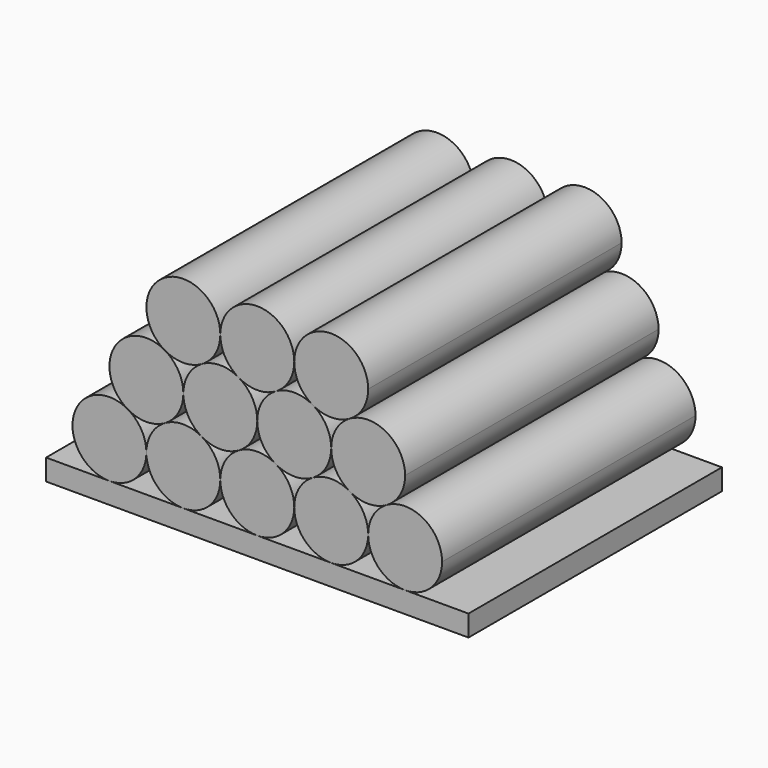
from build123d import *

# Parameters (mm, degrees)
F1_DEPTH = 76.2


with BuildPart() as f1:
    # F0 (on Front) → F1 (new body)
    with BuildSketch(Plane.XZ):
        with BuildLine():
            ThreePointArc((-8.89, 15.397932), (-22.225, 23.096898), (-22.225, 7.698966))
            ThreePointArc((-22.225, 7.698966), (-17.78, 6.507932), (-13.335, 7.698966))
            ThreePointArc((-13.335, 7.698966), (-10.081034, 10.952932), (-8.89, 15.397932))
        make_face()
        with BuildLine():
            ThreePointArc((8.89, 15.397932), (0, 24.287932), (-8.89, 15.397932))
            ThreePointArc((-8.89, 15.397932), (-7.698966, 10.952932), (-4.445, 7.698966))
            ThreePointArc((-4.445, 7.698966), (0, 6.507932), (4.445, 7.698966))
            ThreePointArc((4.445, 7.698966), (7.698966, 10.952932), (8.89, 15.397932))
        make_face()
        with BuildLine():
            ThreePointArc((26.67, 15.397932), (17.78, 24.287932), (8.89, 15.397932))
            ThreePointArc((8.89, 15.397932), (10.081034, 10.952932), (13.335, 7.698966))
            ThreePointArc((13.335, 7.698966), (17.78, 6.507932), (22.225, 7.698966))
            ThreePointArc((22.225, 7.698966), (25.478966, 10.952932), (26.67, 15.397932))
        make_face()
        with BuildLine():
            ThreePointArc((35.56, 0), (31.115, 7.698966), (22.225, 7.698966))
            ThreePointArc((22.225, 7.698966), (18.971034, 4.445), (17.78, 0))
            ThreePointArc((17.78, 0), (18.971034, -4.445), (22.225, -7.698966))
            ThreePointArc((22.225, -7.698966), (26.67, -8.89), (31.115, -7.698966))
            ThreePointArc((31.115, -7.698966), (34.368966, -4.445), (35.56, 0))
        make_face()
        with BuildLine():
            ThreePointArc((4.445, 7.698966), (1.191034, 4.445), (0, 0))
            ThreePointArc((0, 0), (1.191034, -4.445), (4.445, -7.698966))
            ThreePointArc((4.445, -7.698966), (8.89, -8.89), (13.335, -7.698966))
            ThreePointArc((13.335, -7.698966), (16.588966, -4.445), (17.78, 0))
            ThreePointArc((17.78, 0), (16.588966, 4.445), (13.335, 7.698966))
            ThreePointArc((13.335, 7.698966), (8.89, 8.89), (4.445, 7.698966))
        make_face()
        with BuildLine():
            ThreePointArc((-13.335, 7.698966), (-16.588966, 4.445), (-17.78, 0))
            ThreePointArc((-17.78, 0), (-16.588966, -4.445), (-13.335, -7.698966))
            ThreePointArc((-13.335, -7.698966), (-8.89, -8.89), (-4.445, -7.698966))
            ThreePointArc((-4.445, -7.698966), (-1.191034, -4.445), (0, 0))
            ThreePointArc((0, 0), (-1.191034, 4.445), (-4.445, 7.698966))
            ThreePointArc((-4.445, 7.698966), (-8.89, 8.89), (-13.335, 7.698966))
        make_face()
        with BuildLine():
            ThreePointArc((-22.225, -7.698966), (-18.971034, -4.445), (-17.78, 0))
            ThreePointArc((-17.78, 0), (-18.971034, 4.445), (-22.225, 7.698966))
            ThreePointArc((-22.225, 7.698966), (-34.368966, 4.445), (-31.115, -7.698966))
            ThreePointArc((-31.115, -7.698966), (-26.67, -8.89), (-22.225, -7.698966))
        make_face()
        with BuildLine():
            ThreePointArc((-26.67, -15.397932), (-27.861034, -10.952932), (-31.115, -7.698966))
            ThreePointArc((-31.115, -7.698966), (-44.147081, -13.09703), (-35.56, -24.287932))
            ThreePointArc((-35.56, -24.287932), (-29.273821, -21.684111), (-26.67, -15.397932))
        make_face()
        with BuildLine():
            ThreePointArc((-13.335, -7.698966), (-17.78, -6.507932), (-22.225, -7.698966))
            ThreePointArc((-22.225, -7.698966), (-25.478966, -10.952932), (-26.67, -15.397932))
            ThreePointArc((-26.67, -15.397932), (-24.066179, -21.684111), (-17.78, -24.287932))
            ThreePointArc((-17.78, -24.287932), (-11.493821, -21.684111), (-8.89, -15.397932))
            ThreePointArc((-8.89, -15.397932), (-10.081034, -10.952932), (-13.335, -7.698966))
        make_face()
        with BuildLine():
            ThreePointArc((4.445, -7.698966), (0, -6.507932), (-4.445, -7.698966))
            ThreePointArc((-4.445, -7.698966), (-7.698966, -10.952932), (-8.89, -15.397932))
            ThreePointArc((-8.89, -15.397932), (-6.286179, -21.684111), (0, -24.287932))
            ThreePointArc((0, -24.287932), (6.286179, -21.684111), (8.89, -15.397932))
            ThreePointArc((8.89, -15.397932), (7.698966, -10.952932), (4.445, -7.698966))
        make_face()
        with BuildLine():
            ThreePointArc((22.225, -7.698966), (17.78, -6.507932), (13.335, -7.698966))
            ThreePointArc((13.335, -7.698966), (10.081034, -10.952932), (8.89, -15.397932))
            ThreePointArc((8.89, -15.397932), (11.493821, -21.684111), (17.78, -24.287932))
            ThreePointArc((17.78, -24.287932), (24.066179, -21.684111), (26.67, -15.397932))
            ThreePointArc((26.67, -15.397932), (25.478966, -10.952932), (22.225, -7.698966))
        make_face()
        with BuildLine():
            ThreePointArc((31.115, -7.698966), (27.861034, -10.952932), (26.67, -15.397932))
            ThreePointArc((26.67, -15.397932), (29.273821, -21.684111), (35.56, -24.287932))
            ThreePointArc((35.56, -24.287932), (41.846179, -21.684111), (44.45, -15.397932))
            ThreePointArc((44.45, -15.397932), (40.005, -7.698966), (31.115, -7.698966))
        make_face()
        Polygon((-17.78, -24.287932), (-35.56, -24.287932), (-50.8, -24.287932), (-50.8, -29.367932), (50.8, -29.367932), (50.8, -24.287932), (35.56, -24.287932), (17.78, -24.287932), (0, -24.287932), align=None)
    extrude(amount=F1_DEPTH)


solid = f1.part
